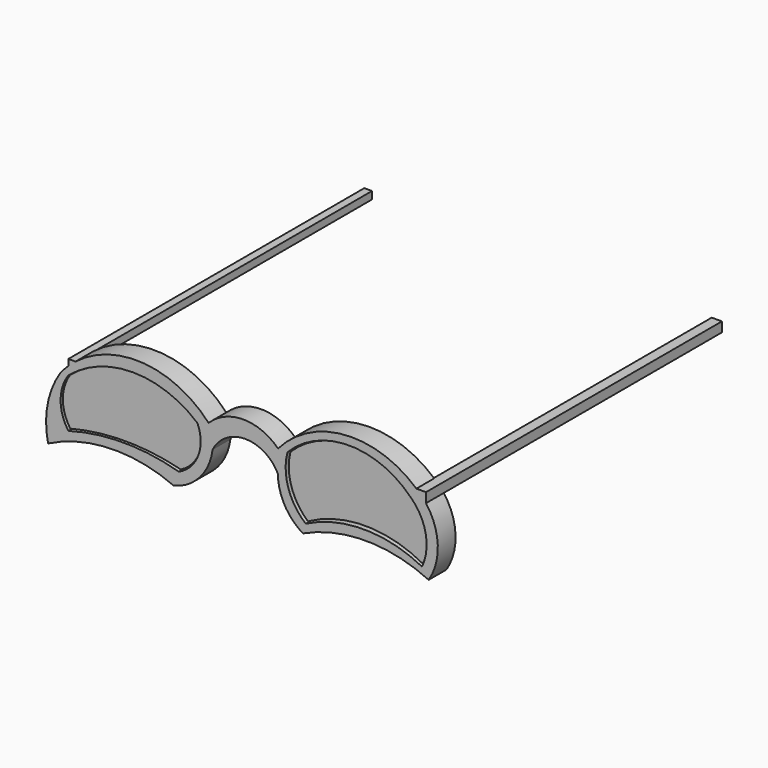
from build123d import *

# Parameters (mm, degrees)
F1_DEPTH  = 7.62
F2_W      = 3.5081729293
F2_H      = 3.3370414749
F3_DEPTH  = 25.4
F4_W      = 2.6525259018
F4_H      = 2.5669550523
F5_DEPTH  = 25.4
F9_DEPTH  = 25.4
F11_DEPTH = 6.858
F13_DEPTH = 25.4
F15_DEPTH = 6.858
F7_W      = 3.499371708
F7_H      = 3.3370414749
F16_DEPTH = 127


with BuildPart() as f1:
    # F0 (on Front) → F1 (new body)
    with BuildSketch(Plane.XZ):
        with BuildLine():
            ThreePointArc((51.6570120453, 8.9649045263), (26.2570120453, 20.667213597), (0.8570120453, 8.9649045263))
            ThreePointArc((0.8570120453, 8.9649045263), (-11.0614482688, 13.9160362753), (-22.9799085829, 8.9649045263))
            ThreePointArc((-22.9799085829, 8.9649045263), (-48.6671182353, 19.8569467975), (-73.7799085829, 7.6989417998))
            ThreePointArc((-73.7799085829, 7.6989417998), (-78.2661911383, -3.2913957408), (-78.1069318422, -15.1610582002))
            ThreePointArc((-78.1069318422, -15.1610582002), (-56.6582008575, -9.7096126313), (-34.9269318422, -13.8950954737))
            ThreePointArc((-34.9269318422, -13.8950954737), (-25.9203901661, -8.3316477048), (-21.6268973038, 1.3449045263))
            ThreePointArc((-21.6268973038, 1.3449045263), (-10.4107487865, 8.2396368891), (0.8053997308, 1.3449045263))
            ThreePointArc((0.8053997308, 1.3449045263), (3.1142404967, -7.3924418733), (9.3901837679, -13.8950954737))
            ThreePointArc((9.3901837679, -13.8950954737), (30.9801837679, -9.0789176289), (52.5701837679, -13.8950954737))
            ThreePointArc((52.5701837679, -13.8950954737), (55.6960845757, -2.3219884954), (51.6570120453, 8.9649045263))
        make_face()
    extrude(amount=F1_DEPTH)

    # F2 (on face) → F3 (cut)
    with BuildSketch(Plane.XZ.offset(7.62)):
        with Locations((49.9004349113, 10.6466268189)):
            Rectangle(F2_W, F2_H)
    extrude(amount=-F3_DEPTH, mode=Mode.SUBTRACT)

    # F4 (on face) → F5 (cut)
    with BuildSketch(Plane.XZ.offset(7.62)):
        with Locations((-69.8052272201, 11.3739320077)):
            Rectangle(F4_W, F4_H)
    extrude(amount=-F5_DEPTH, mode=Mode.SUBTRACT)

    # F8 (on face) → F9 (cut)
    with BuildSketch(Plane.XZ.offset(7.62)):
        with BuildLine():
            ThreePointArc((-33.202290535, -9.0922256932), (-26.5225166851, -2.0224355139), (-26.8325731158, 7.6989417998))
            ThreePointArc((-26.8325731158, 7.6989417998), (-48.9820316434, 15.8321468799), (-71.131490171, 7.6989417998))
            ThreePointArc((-71.131490171, 7.6989417998), (-73.8122563738, -0.6966419467), (-71.131490171, -9.0922256932))
            ThreePointArc((-71.131490171, -9.0922256932), (-52.166890353, -6.4703124091), (-33.202290535, -9.0922256932))
        make_face()
    extrude(amount=-F9_DEPTH, mode=Mode.SUBTRACT)

    # F12 (on face) → F13 (cut)
    with BuildSketch(Plane.XZ.offset(7.62)):
        with BuildLine():
            ThreePointArc((50.3011606634, -10.6448102742), (51.5490277497, -0.2314904944), (46.5071313083, 8.9649045263))
            ThreePointArc((46.5071313083, 8.9649045263), (25.3052259795, 17.8641451804), (4.1033206508, 8.9649045263))
            ThreePointArc((4.1033206508, 8.9649045263), (4.3666706149, -1.7517064777), (10.3523042053, -10.6448102742))
            ThreePointArc((10.3523042053, -10.6448102742), (30.3267324343, -5.839525082), (50.3011606634, -10.6448102742))
        make_face()
    extrude(amount=-F13_DEPTH, mode=Mode.SUBTRACT)

    # F7 (on face) + F6 (on face) → F16 (join)
    with BuildSketch(Plane.XZ.offset(7.62)):
        with Locations((49.8960343006, 10.6466268189)):
            Rectangle(F7_W, F7_H)
    with BuildSketch(Plane.XZ.offset(7.62)):
        Polygon((-68.4789642692, 10.0904544815), (-68.4789642692, 12.6574095339), (-68.6795919821, 12.6574095339), (-71.131490171, 12.6574095339), (-71.131490171, 10.5336160475), (-71.131490171, 10.0904544815), align=None)
    extrude(amount=-F16_DEPTH)


with BuildPart() as f11:
    # F10 (on face) → F11 (new body)
    with BuildSketch(Plane.XZ):
        with BuildLine():
            ThreePointArc((-33.1520698965, -8.6897080764), (-26.8230920622, -1.773005559), (-26.7965905368, 7.6022827998))
            ThreePointArc((-26.7965905368, 7.6022827998), (-48.957192441, 15.6664707084), (-71.0974112153, 7.5464881957))
            ThreePointArc((-71.0974112153, 7.5464881957), (-73.6286093359, -0.5716099404), (-71.0974112153, -8.6897080764))
            ThreePointArc((-71.0974112153, -8.6897080764), (-52.1247405559, -6.306884933), (-33.1520698965, -8.6897080764))
        make_face()
    extrude(amount=F11_DEPTH)


with BuildPart() as f15:
    # F14 (on face) → F15 (new body)
    with BuildSketch(Plane.XZ):
        with BuildLine():
            ThreePointArc((49.9911569059, -10.1813292131), (51.0891638669, 0.2400504094), (45.8889044821, 9.3377465382))
            ThreePointArc((45.8889044821, 9.3377465382), (25.0947840747, 17.5750271949), (4.5016123913, 8.8475123048))
            ThreePointArc((4.5016123913, 8.8475123048), (4.8246815973, -1.5141317655), (10.512188077, -10.1813292131))
            ThreePointArc((10.512188077, -10.1813292131), (30.2516724914, -5.1216910352), (49.9911569059, -10.1813292131))
        make_face()
    extrude(amount=F15_DEPTH)


solid = Compound([f1.part, f11.part, f15.part])
